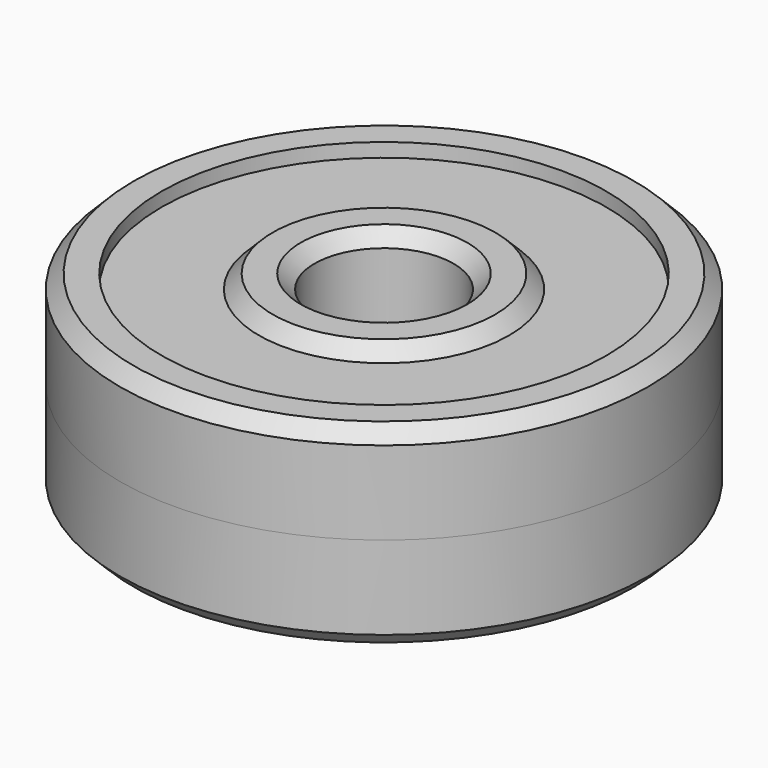
from build123d import *

# Parameters (mm, degrees)
F0_R     = 9.5
F0_R_2   = 8
F0_R_3   = 4.5
F0_R_4   = 2.5
F1_DEPTH = 3.5
F2_R     = 9.25
F2_R_2   = 6.25
F3_DEPTH = 2.5
F4_R     = 9.45
F4_R_2   = 4.5
F5_DEPTH = 3
F6_SIZE  = 0.5


with BuildPart() as f1:
    # F0 (on Top) → F1 (new body, symmetric)
    with BuildSketch(Plane.XY):
        Circle(F0_R)
        Circle(F0_R_2, mode=Mode.SUBTRACT)
        Circle(F0_R_3)
        Circle(F0_R_4, mode=Mode.SUBTRACT)
    extrude(amount=F1_DEPTH, both=True)

    # F6
    f6_edges = [f1.edges().sort_by_distance(p)[0] for p in [
        (-9.5, 0, 3.5),
        (-9.5, 0, -3.5),
        (-4.5, 0, 3.5),
        (-2.5, 0, 3.5),
        (-4.5, 0, -3.5),
        (-2.5, 0, -3.5),
    ]]
    chamfer(f6_edges, length=F6_SIZE)


with BuildPart() as f3:
    # F2 (on Top) → F3 (new body)
    with BuildSketch(Plane.XY):
        Circle(F2_R)
        Circle(F2_R_2, mode=Mode.SUBTRACT)
    extrude(amount=-F3_DEPTH)


with BuildPart() as f5:
    # F4 (on Top) → F5 (new body)
    with BuildSketch(Plane.XY):
        Circle(F4_R)
        Circle(F4_R_2, mode=Mode.SUBTRACT)
    extrude(amount=F5_DEPTH)


solid = Compound([f1.part, f3.part, f5.part])
